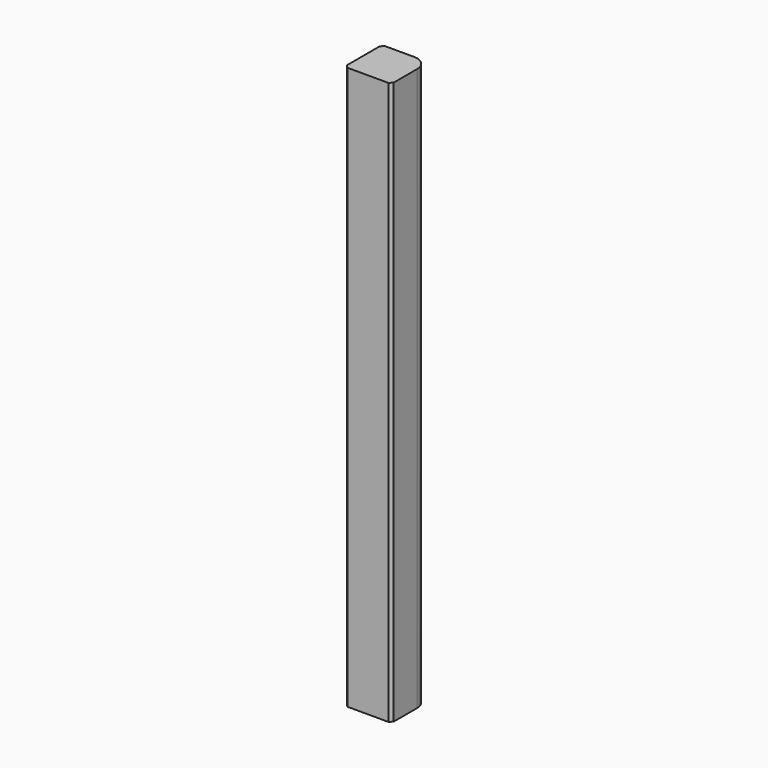
from build123d import *

# Parameters (mm, degrees)
F0_W     = 50.8
F0_H     = 50.8
F1_DEPTH = 609.6
F2_R     = 15.875
F3_SIZE  = 3.175


with BuildPart() as f1:
    # F0 (on Top) → F1 (new body)
    with BuildSketch(Plane.XY):
        with Locations((25.4, -25.4)):
            Rectangle(F0_W, F0_H)
    extrude(amount=F1_DEPTH)

    # F2
    f2_edges = [f1.edges().sort_by_distance(p)[0] for p in [
        (50.8, 0, 304.8),
    ]]
    fillet(f2_edges, radius=F2_R)

    # F3
    f3_edges = [f1.edges().sort_by_distance(p)[0] for p in [
        (0, 0, 304.8),
        (0, -50.8, 304.8),
        (50.8, -50.8, 304.8),
    ]]
    chamfer(f3_edges, length=F3_SIZE)


solid = f1.part
